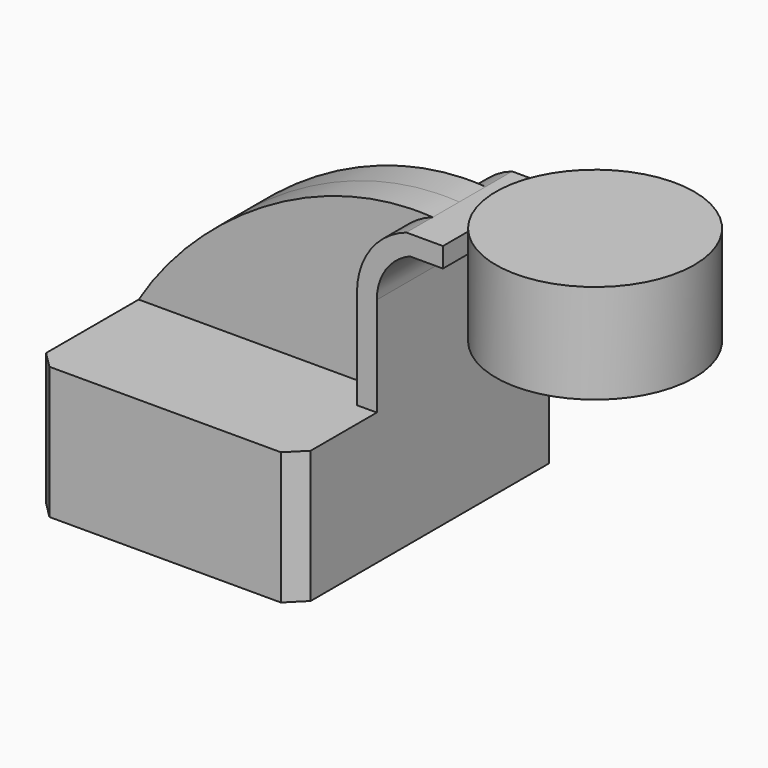
from build123d import *

# Parameters (mm, degrees)
F1_DEPTH = 63.5
F2_DEPTH = 25.4
F3_DEPTH = 12.7
F5_SIZE  = 6.35


with BuildPart() as f1:
    # F0 (on Front) → F1 (new body, symmetric)
    with BuildSketch(Plane.XZ):
        Polygon((26.772957, 11.188716), (-67.207043, 11.188716), (-67.207043, -39.611284), (34.392957, -39.611284), (34.392957, 11.188716), align=None)
    extrude(amount=F1_DEPTH, both=True)

    # F0 (on Front) → F2 (join, symmetric)
    with BuildSketch(Plane.XZ):
        with BuildLine():
            Line((26.772957, 49.288716), (26.772957, 11.188716))
            Line((26.772957, 11.188716), (34.392957, 11.188716))
            Line((34.392957, 11.188716), (34.392957, 49.288716))
            ThreePointArc((34.392957, 49.288716), (37.864503, 60.647941), (47.092957, 68.12586))
            Line((47.092957, 68.12586), (59.792957, 68.12586))
            Line((59.792957, 68.12586), (59.792957, 75.74586))
            Line((59.792957, 75.74586), (45.731692, 75.74586))
            ThreePointArc((45.731692, 75.74586), (32.001945, 65.563037), (26.772957, 49.288716))
        make_face()
    extrude(amount=F2_DEPTH, both=True)

    # F0 (on Front) → F3 (join, symmetric)
    with BuildSketch(Plane.XZ):
        with BuildLine():
            add(Edge.make_bspline(
                [(-67.207043, 11.188716), (-46.063684, 46.195824), (0, 78.709707), (45.731692, 75.74586)],
                knots=[0, 0, 0, 0, 130.087596, 130.087596, 130.087596, 130.087596], degree=3))
            Line((-67.207043, 11.188716), (26.772957, 11.188716))
            Line((26.772957, 11.188716), (26.772957, 49.288716))
            ThreePointArc((26.772957, 49.288716), (32.001945, 65.563037), (45.731692, 75.74586))
        make_face()
    extrude(amount=F3_DEPTH, both=True)

    # F0 (on Front) → F4 (revolve)
    with BuildSketch(Plane.XZ):
        Polygon((97.892957, 83.79226), (97.892957, 75.74586), (97.892957, 68.12586), (97.892957, 45.69226), (135.992957, 45.69226), (135.992957, 83.79226), align=None)
    revolve(axis=Axis((97.892957, 0, 79.76906), (0, 0, 1)))

    # F5
    f5_edges = [f1.edges().sort_by_distance(p)[0] for p in [
        (34.392957, -63.5, -14.211284),
        (-67.207043, -63.5, -14.211284),
        (34.392957, 63.5, -14.211284),
        (-67.207043, 63.5, -14.211284),
    ]]
    chamfer(f5_edges, length=F5_SIZE)


solid = f1.part
